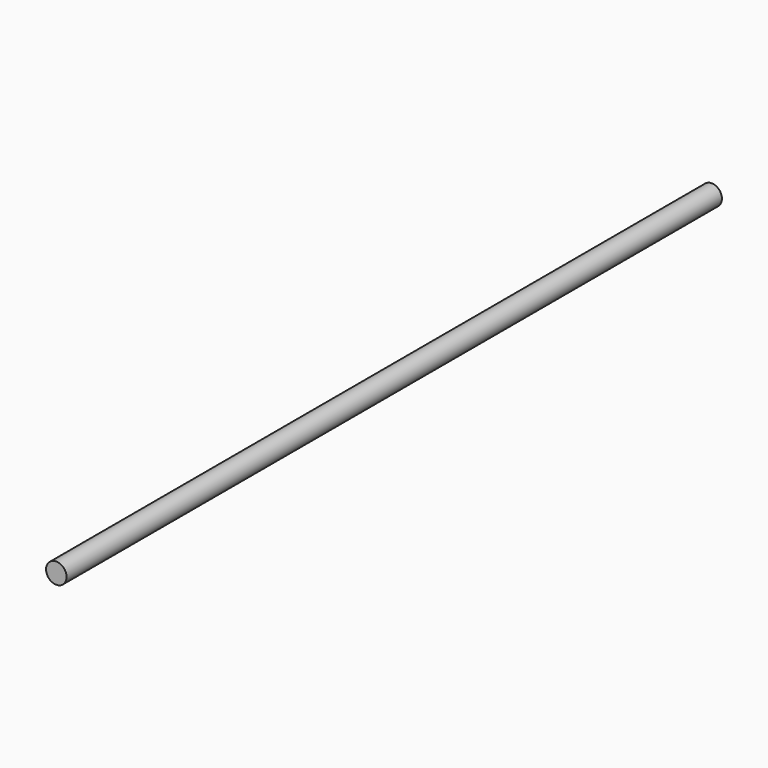
from build123d import *

# Parameters (mm, degrees)
CYLINDER_R          = 4
CYLINDER_DEPTH      = 320
CYLINDER_ROLL_ANGLE = 90


with BuildPart() as part:
    # Cylinder → Cylinder (new body)
    with BuildSketch(Plane.XY):
        Circle(CYLINDER_R)
    extrude(amount=CYLINDER_DEPTH)


with BuildPart() as part_1:
    # Cylinder roll: moved
    add(part.part.rotate(Axis((0, 0, 0), (1, 0, 0)), CYLINDER_ROLL_ANGLE))


with BuildPart() as part_2:
    # Cylinder placement: moved
    add(part_1.part)


solid = part_2.part
